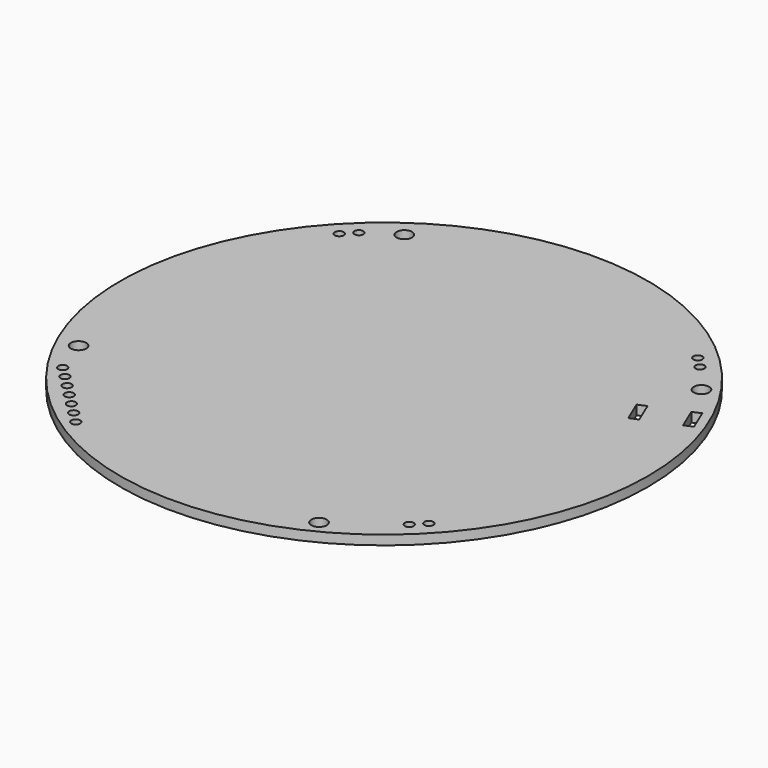
from build123d import *

# Parameters (mm, degrees)
F0_R     = 44.5
F0_R_2   = 0.75
F0_R_3   = 1.3
F1_DEPTH = 1.6


with BuildPart() as f1:
    # F0 (on Top) → F1 (new body)
    with BuildSketch(Plane.XY):
        Circle(F0_R)
        with Locations((-23.97092, -35.001786)):
            Circle(F0_R_2, mode=Mode.SUBTRACT)
        with Locations((-35.001786, -23.97092)):
            Circle(F0_R_2, mode=Mode.SUBTRACT)
        with Locations((-29.486353, -29.486353)):
            Circle(F0_R_2, mode=Mode.SUBTRACT)
        with Locations((-25.809398, -33.163308)):
            Circle(F0_R_2, mode=Mode.SUBTRACT)
        with Locations((-27.647875, -31.32483)):
            Circle(F0_R_2, mode=Mode.SUBTRACT)
        with Locations((-31.32483, -27.647875)):
            Circle(F0_R_2, mode=Mode.SUBTRACT)
        with Locations((-33.163308, -25.809398)):
            Circle(F0_R_2, mode=Mode.SUBTRACT)
        with Locations((-37.25834, -17.811228)):
            Circle(F0_R_3, mode=Mode.SUBTRACT)
        with Locations((18.93198, -37.379007)):
            Circle(F0_R_3, mode=Mode.SUBTRACT)
        with Locations((28.567114, -30.405592)):
            Circle(F0_R_2, mode=Mode.SUBTRACT)
        with Locations((30.405592, -28.567114)):
            Circle(F0_R_2, mode=Mode.SUBTRACT)
        with Locations((-30.405592, 28.567114)):
            Circle(F0_R_2, mode=Mode.SUBTRACT)
        with Locations((-28.567114, 30.405592)):
            Circle(F0_R_2, mode=Mode.SUBTRACT)
        with Locations((-23.545901, 33.694685)):
            Circle(F0_R_3, mode=Mode.SUBTRACT)
        Polygon((33.518128, 11.865288), (32.134506, 11.285987), (30.589704, 14.975647), (31.973326, 15.554948), align=None, mode=Mode.SUBTRACT)
        Polygon((40.43624, 14.761792), (39.052618, 14.182491), (37.507816, 17.872151), (38.891438, 18.451451), align=None, mode=Mode.SUBTRACT)
        with Locations((30.405592, 28.567114)):
            Circle(F0_R_2, mode=Mode.SUBTRACT)
        with Locations((28.567114, 30.405592)):
            Circle(F0_R_2, mode=Mode.SUBTRACT)
        with Locations((34.591679, 23.643726)):
            Circle(F0_R_3, mode=Mode.SUBTRACT)
    extrude(amount=F1_DEPTH)


solid = f1.part
